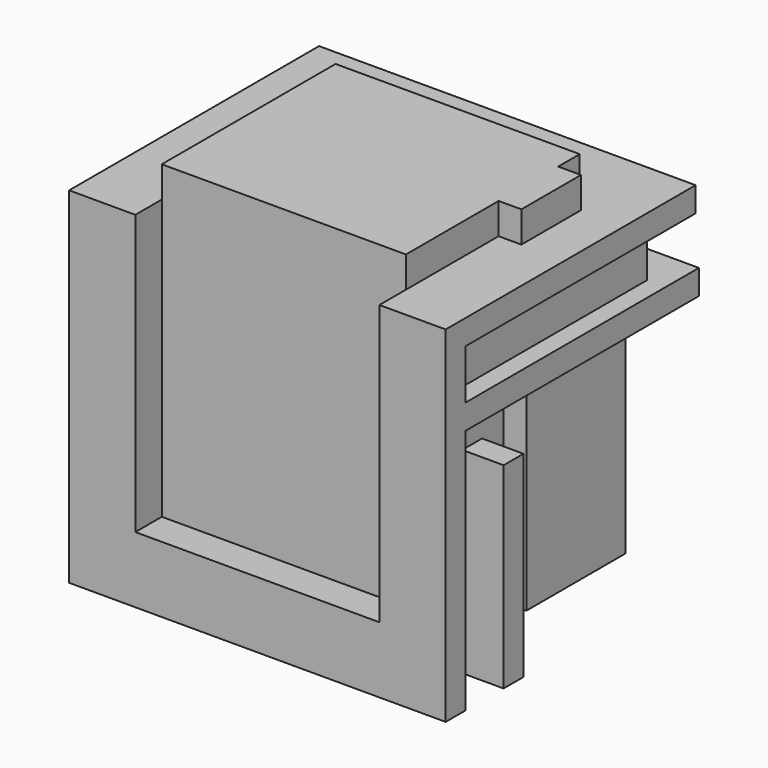
from build123d import *

# Parameters (mm, degrees)
PAD_DEPTH       = 15
SKETCH001_R     = 0.6
PAD001_DEPTH    = 5
SKETCH002_R     = 0.6
PAD002_DEPTH    = 5
PAD003_DEPTH    = 1.2
PAD004_DEPTH    = 13.5
SKETCH005_W     = 1.2
SKETCH005_H     = 14.7
PAD005_DEPTH    = 2
SKETCH006_W     = 1.2
SKETCH006_H     = 14.7
PAD006_DEPTH    = 2
PAD007_DEPTH    = 1.2
SKETCH008_W     = 2
SKETCH008_H     = 12.1
PAD008_DEPTH    = 1.2
SKETCH009_W     = 18.2
SKETCH009_H     = 1.2
PAD009_DEPTH    = 2
SKETCH010_W     = 18.2
SKETCH010_H     = 1.2
PAD010_DEPTH    = 2
SKETCH011_W     = 6
SKETCH011_H     = 1.2
PAD011_DEPTH    = 0.1
SKETCH012_W     = 1.2
SKETCH012_H     = 7.5
PAD012_DEPTH    = 2
SKETCH013_W     = 1.2
SKETCH013_H     = 7.5
PAD013_DEPTH    = 2
SKETCH014_W     = 18.2
SKETCH014_H     = 1.2
PAD014_DEPTH    = 2
SKETCH015_W     = 12.1
SKETCH015_H     = 1.2
PAD015_DEPTH    = 1.5
SKETCH016_W     = 4.8
SKETCH016_H     = 1.2
PAD016_DEPTH    = 2
SKETCH017_W     = 1.3
SKETCH017_H     = 1.2
PAD017_DEPTH    = 2
SKETCH018_W     = 6
SKETCH018_H     = 1.2
PAD018_DEPTH    = 0.9
SKETCH019_W     = 17.7
SKETCH019_H     = 1.2
PAD019_DEPTH    = 2
SKETCH020_R     = 0.6
POCKET_DEPTH    = 5
SKETCH021_R     = 0.6
POCKET001_DEPTH = 5
SKETCH022_W     = 4.8
SKETCH022_H     = 2.4
PAD020_DEPTH    = 1.1
SKETCH023_W     = 1.3
SKETCH023_H     = 2.4
PAD021_DEPTH    = 1.1
SKETCH024_R     = 0.7
POCKET002_DEPTH = 2
SKETCH025_R     = 0.7
POCKET003_DEPTH = 2
SKETCH026_W     = 18.2
SKETCH026_H     = 1.2
POCKET004_DEPTH = 0.2


with BuildPart() as obj1:
    # Sketch → Pad (new body)
    with BuildSketch(Plane.XY):
        Polygon((-5.9, 0), (5.9, 0), (5.9, -1.3), (7, -1.3), (7, -4.9), (5.9, -4.9), (5.9, -10.5), (-5.9, -10.5), align=None)
    extrude(amount=PAD_DEPTH)

    # Sketch001 → Pad001 (new body)
    with BuildSketch(Plane(origin=(0, 0, 0), x_dir=(1, 0, 0), z_dir=(0, 0, -1))):
        with Locations((2.55, 3.45)):
            Circle(SKETCH001_R)
    extrude(amount=PAD001_DEPTH)

    # Sketch002 → Pad002 (new body)
    with BuildSketch(Plane(origin=(0, 0, 0), x_dir=(1, 0, 0), z_dir=(0, 0, -1))):
        with Locations((-3.25, 3.45)):
            Circle(SKETCH002_R)
    extrude(amount=PAD002_DEPTH)


with BuildPart() as pocket004:
    # Sketch003 → Pad003 (new body)
    with BuildSketch(Plane(origin=(0, 0, 0), x_dir=(1, 0, 0), z_dir=(0, 0, -1))):
        Polygon((-7.1, -1.2), (-7.1, 12.1), (7.1, 12.1), (7.1, 6.1), (8.1, 6.1), (8.1, 0.1), (7.1, 0.1), (7.1, -1.2), align=None)
    extrude(amount=PAD003_DEPTH)

    # Sketch004 → Pad004 (new body)
    with BuildSketch(Plane.XY):
        Polygon((-7.1, -12.1), (-7.1, 1.2), (7.1, 1.2), (7.1, -0.1), (8.2, -0.1), (8.2, -6.1), (7.1, -6.1), (7.1, -12.1), (5.9, -12.1), (5.9, -4.9), (7, -4.9), (7, -1.3), (5.9, -1.3), (5.9, 0), (-5.9, 0), (-5.9, -12.1), align=None)
    extrude(amount=PAD004_DEPTH)

    # Sketch005 → Pad005 (new body)
    with BuildSketch(Plane(origin=(7.1, 0, 0), x_dir=(0, -1, 0), z_dir=(1, 0, 0))):
        with Locations((11.5, -6.15)):
            Rectangle(SKETCH005_W, SKETCH005_H)
    extrude(amount=PAD005_DEPTH)

    # Sketch006 → Pad006 (new body)
    with BuildSketch(Plane(origin=(-7.1, 0, 0), x_dir=(0, 1, 0), z_dir=(-1, 0, 0))):
        with Locations((-11.5, -6.15)):
            Rectangle(SKETCH006_W, SKETCH006_H)
    extrude(amount=PAD006_DEPTH)

    # Sketch007 → Pad007 (new body)
    with BuildSketch(Plane.XY.offset(13.5)):
        Polygon((7.1, 1.2), (7.1, -0.1), (8.2, -0.1), (8.2, -6.1), (7.1, -6.1), (7.1, -10.9), (9.1, -10.9), (9.1, 1.2), align=None)
    extrude(amount=-PAD007_DEPTH)

    # Sketch008 → Pad008 (new body)
    with BuildSketch(Plane.XY.offset(13.5)):
        with Locations((-8.1, -4.85)):
            Rectangle(SKETCH008_W, SKETCH008_H)
    extrude(amount=-PAD008_DEPTH)

    # Sketch009 → Pad009 (new body)
    with BuildSketch(Plane(origin=(0, 1.2, 0), x_dir=(1, 0, 0), z_dir=(0, 1, 0))):
        with Locations((0, -12.9)):
            Rectangle(SKETCH009_W, SKETCH009_H)
    extrude(amount=PAD009_DEPTH)

    # Sketch010 → Pad010 (new body)
    with BuildSketch(Plane(origin=(0, 0, -1.2), x_dir=(1, 0, 0), z_dir=(0, 0, -1))):
        with Locations((0, 11.5)):
            Rectangle(SKETCH010_W, SKETCH010_H)
    extrude(amount=PAD010_DEPTH)

    # Sketch011 → Pad011 (new body)
    with BuildSketch(Plane(origin=(8.1, 0, 0), x_dir=(0, -1, 0), z_dir=(1, 0, 0))):
        with Locations((3.1, 0.6)):
            Rectangle(SKETCH011_W, SKETCH011_H)
    extrude(amount=PAD011_DEPTH)

    # Sketch012 → Pad012 (new body)
    with BuildSketch(Plane(origin=(7.1, 0, 0), x_dir=(0, -1, 0), z_dir=(1, 0, 0))):
        with Locations((8, -2.55)):
            Rectangle(SKETCH012_W, SKETCH012_H)
    extrude(amount=PAD012_DEPTH)

    # Sketch013 → Pad013 (new body)
    with BuildSketch(Plane(origin=(-7.1, 0, 0), x_dir=(0, 1, 0), z_dir=(-1, 0, 0))):
        with Locations((-8, -2.55)):
            Rectangle(SKETCH013_W, SKETCH013_H)
    extrude(amount=PAD013_DEPTH)

    # Sketch014 → Pad014 (new body)
    with BuildSketch(Plane(origin=(0, 0, -1.2), x_dir=(1, 0, 0), z_dir=(0, 0, -1))):
        with Locations((0, 8)):
            Rectangle(SKETCH014_W, SKETCH014_H)
    extrude(amount=PAD014_DEPTH)

    # Sketch015 → Pad015 (new body)
    with BuildSketch(Plane(origin=(-7.1, 0, 0), x_dir=(0, 1, 0), z_dir=(-1, 0, 0))):
        with Locations((-4.85, -9.3)):
            Rectangle(SKETCH015_W, SKETCH015_H)
    extrude(amount=PAD015_DEPTH)

    # Sketch016 → Pad016 (new body)
    with BuildSketch(Plane(origin=(7.1, 0, 0), x_dir=(0, -1, 0), z_dir=(1, 0, 0))):
        with Locations((8.5, -9.3)):
            Rectangle(SKETCH016_W, SKETCH016_H)
    extrude(amount=PAD016_DEPTH)

    # Sketch017 → Pad017 (new body)
    with BuildSketch(Plane(origin=(7.1, 0, 0), x_dir=(0, -1, 0), z_dir=(1, 0, 0))):
        with Locations((-0.55, -9.3)):
            Rectangle(SKETCH017_W, SKETCH017_H)
    extrude(amount=PAD017_DEPTH)

    # Sketch018 → Pad018 (new body)
    with BuildSketch(Plane(origin=(8.2, 0, 0), x_dir=(0, -1, 0), z_dir=(1, 0, 0))):
        with Locations((3.1, -9.3)):
            Rectangle(SKETCH018_W, SKETCH018_H)
    extrude(amount=PAD018_DEPTH)

    # Sketch019 → Pad019 (new body)
    with BuildSketch(Plane(origin=(0, 1.2, 0), x_dir=(1, 0, 0), z_dir=(0, 1, 0))):
        with Locations((0.25, -9.3)):
            Rectangle(SKETCH019_W, SKETCH019_H)
    extrude(amount=PAD019_DEPTH)

    # Sketch020 → Pocket (cut)
    with BuildSketch(Plane(origin=(0, 0, -1.2), x_dir=(1, 0, 0), z_dir=(0, 0, -1))):
        with Locations((-3.25, 3.45)):
            Circle(SKETCH020_R)
    extrude(amount=-POCKET_DEPTH, mode=Mode.SUBTRACT)

    # Sketch021 → Pocket001 (cut)
    with BuildSketch(Plane(origin=(0, 0, -1.2), x_dir=(1, 0, 0), z_dir=(0, 0, -1))):
        with Locations((2.55, 3.45)):
            Circle(SKETCH021_R)
    extrude(amount=-POCKET001_DEPTH, mode=Mode.SUBTRACT)

    # Sketch022 → Pad020 (new body)
    with BuildSketch(Plane(origin=(7.1, 0, 0), x_dir=(0, -1, 0), z_dir=(1, 0, 0))):
        with Locations((8.5, -11.1)):
            Rectangle(SKETCH022_W, SKETCH022_H)
    extrude(amount=PAD020_DEPTH)

    # Sketch023 → Pad021 (new body)
    with BuildSketch(Plane(origin=(7.1, 0, 0), x_dir=(0, -1, 0), z_dir=(1, 0, 0))):
        with Locations((-0.55, -11.1)):
            Rectangle(SKETCH023_W, SKETCH023_H)
    extrude(amount=PAD021_DEPTH)

    # Sketch024 → Pocket002 (cut)
    with BuildSketch(Plane(origin=(0, 0, -1.2), x_dir=(1, 0, 0), z_dir=(0, 0, -1))):
        with Locations((2.55, 3.45)):
            Circle(SKETCH024_R)
    extrude(amount=-POCKET002_DEPTH, mode=Mode.SUBTRACT)

    # Sketch025 → Pocket003 (cut)
    with BuildSketch(Plane(origin=(0, 0, -1.2), x_dir=(1, 0, 0), z_dir=(0, 0, -1))):
        with Locations((-3.25, 3.45)):
            Circle(SKETCH025_R)
    extrude(amount=-POCKET003_DEPTH, mode=Mode.SUBTRACT)

    # Sketch026 → Pocket004 (cut)
    with BuildSketch(Plane(origin=(0, 3.2, 0), x_dir=(1, 0, 0), z_dir=(0, 1, 0))):
        with Locations((0, -12.9)):
            Rectangle(SKETCH026_W, SKETCH026_H)
    extrude(amount=-POCKET004_DEPTH, mode=Mode.SUBTRACT)


solid = Compound([obj1.part, pocket004.part])
